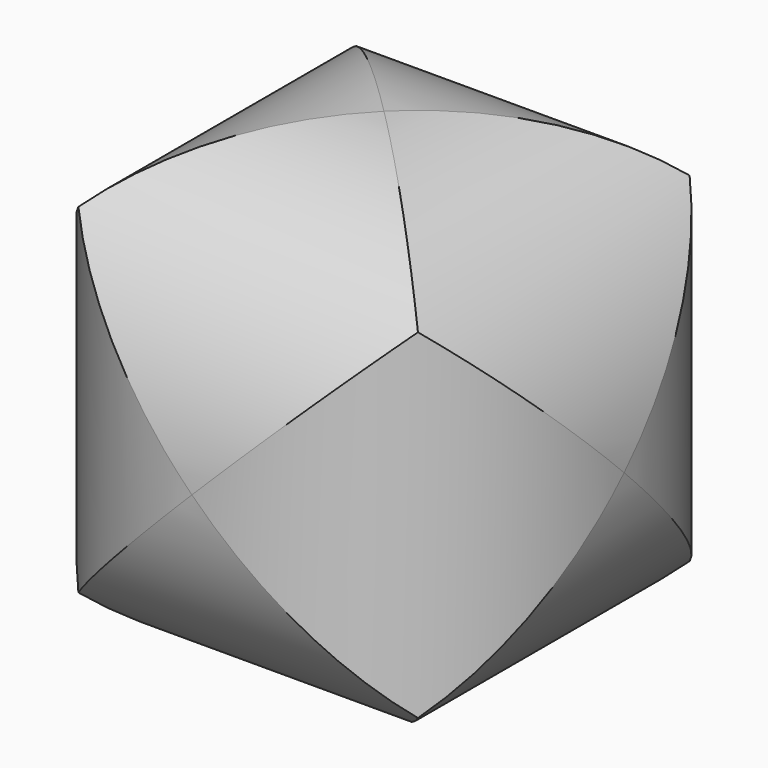
from build123d import *

# Parameters (mm, degrees)
F0_R     = 7.5
F3_DEPTH = 7.5
F1_R     = 7.5
F4_DEPTH = 7.5
F2_R     = 7.5
F5_DEPTH = 7.5


with BuildPart() as f3:
    # F0 (on Front) → F3 (new body, symmetric)
    with BuildSketch(Plane.XZ):
        Circle(F0_R)
    extrude(amount=F3_DEPTH, both=True)

    # F1 (on Top) → F4 (intersect, symmetric)
    with BuildSketch(Plane.XY):
        Circle(F1_R)
    extrude(amount=F4_DEPTH, both=True, mode=Mode.INTERSECT)

    # F2 (on Right) → F5 (intersect, symmetric)
    with BuildSketch(Plane.YZ):
        Circle(F2_R)
    extrude(amount=F5_DEPTH, both=True, mode=Mode.INTERSECT)


solid = f3.part
